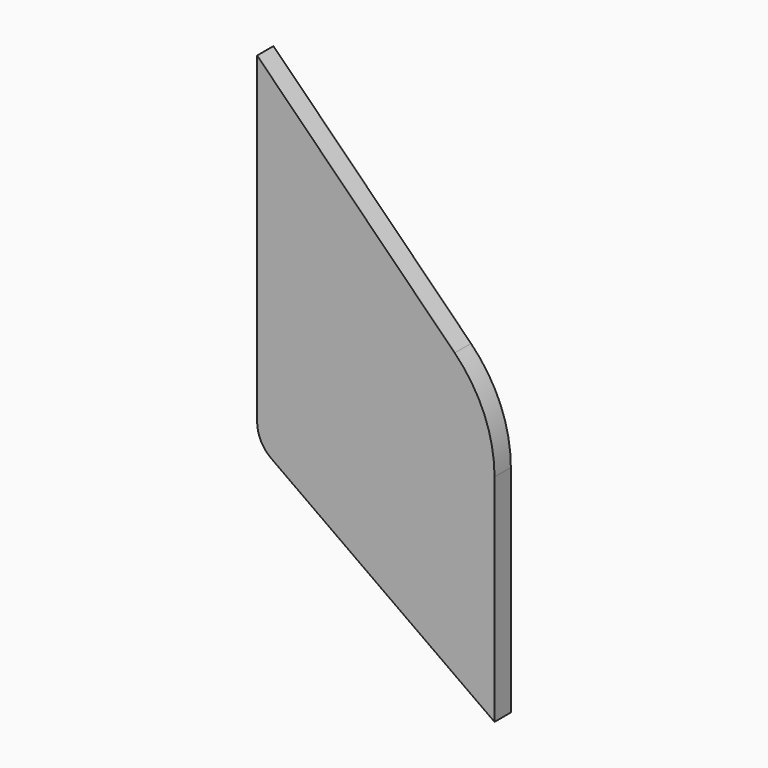
from build123d import *

# Parameters (mm, degrees)
PAD008_DEPTH            = 1.5
FILLET010_R             = 20
FILLET011_R             = 5
BODY009_PLACEMENT_ANGLE = 90


with BuildPart() as part:
    # Sketch013 → Pad008 (new body, symmetric)
    with BuildSketch(Plane.YZ):
        Polygon((27, -2.5), (61.9, -27.3999999995), (61.9, 12.6000000005), (27, 47.5), align=None)
    extrude(amount=PAD008_DEPTH, both=True)

    # Fillet010
    fillet010_edges = [part.edges().sort_by_distance(p)[0] for p in [
        (0, 61.9, 12.6),
    ]]
    fillet(fillet010_edges, radius=FILLET010_R)

    # Fillet011
    fillet011_edges = [part.edges().sort_by_distance(p)[0] for p in [
        (0, 27, -2.5),
    ]]
    fillet(fillet011_edges, radius=FILLET011_R)


with BuildPart() as part_1:
    # Body009 placement: moved
    add(part.part.rotate(Axis((0, 0, 0), (0, 0, -1)), BODY009_PLACEMENT_ANGLE))


solid = part_1.part
